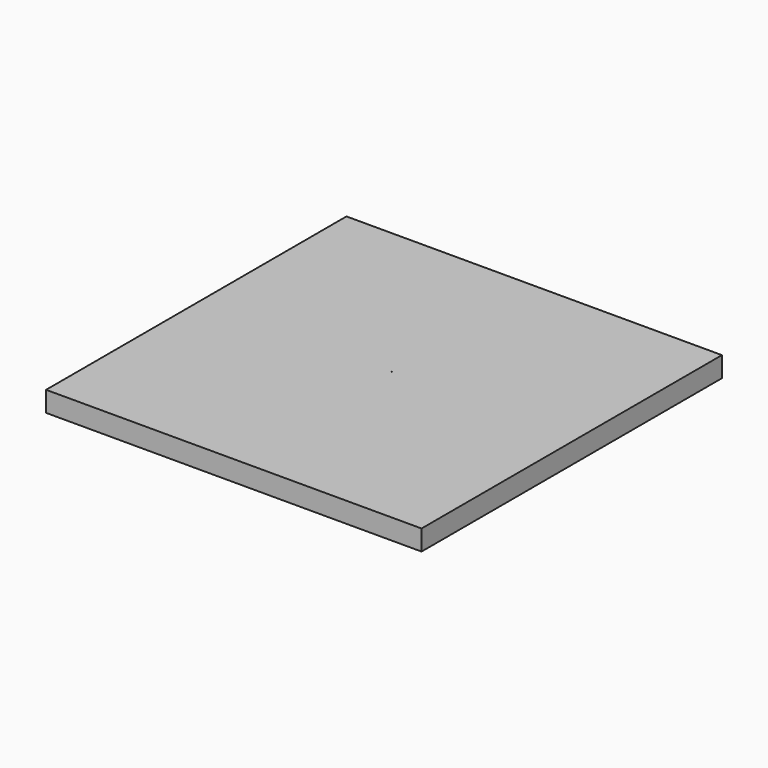
from build123d import *

# Parameters (mm, degrees)
F0_W     = 12000
F0_H     = 12000
F3_DEPTH = 150
F5_D     = 13.1064
F5_DEPTH = 20
F5_TIP   = 3.9375598086


with BuildPart() as f2:
    # F2: sweep along a path in F0
    with BuildLine(Plane.XY) as f2_path:
        Line((-6000, -6000), (6000, -6000))
        Line((6000, -6000), (6000, 6000))
        Line((6000, 6000), (-6000, 6000))
        Line((-6000, 6000), (-6000, -6000))
    # F1 (on Right) → F2 (sweep)
    with BuildSketch(Plane.YZ):
        Polygon((-5550, 0), (-6000, 0), (-6000, -500), (-5700, -500), align=None)
    sweep(path=f2_path.line, transition=Transition.RIGHT)

    # F0 (on Top) → F3 (join)
    with BuildSketch(Plane.XY):
        Rectangle(F0_W, F0_H)
    extrude(amount=F3_DEPTH)

    # F5
    with Locations(Plane.XY.offset(150)):
        with Locations((132.6377540827, 152.1905660629)):
            Hole(F5_D / 2, depth=F5_DEPTH)
            with Locations((0, 0, -(F5_DEPTH + F5_TIP / 2))):  # 118° drill point
                Cone(0, F5_D / 2, F5_TIP, mode=Mode.SUBTRACT)


solid = f2.part
